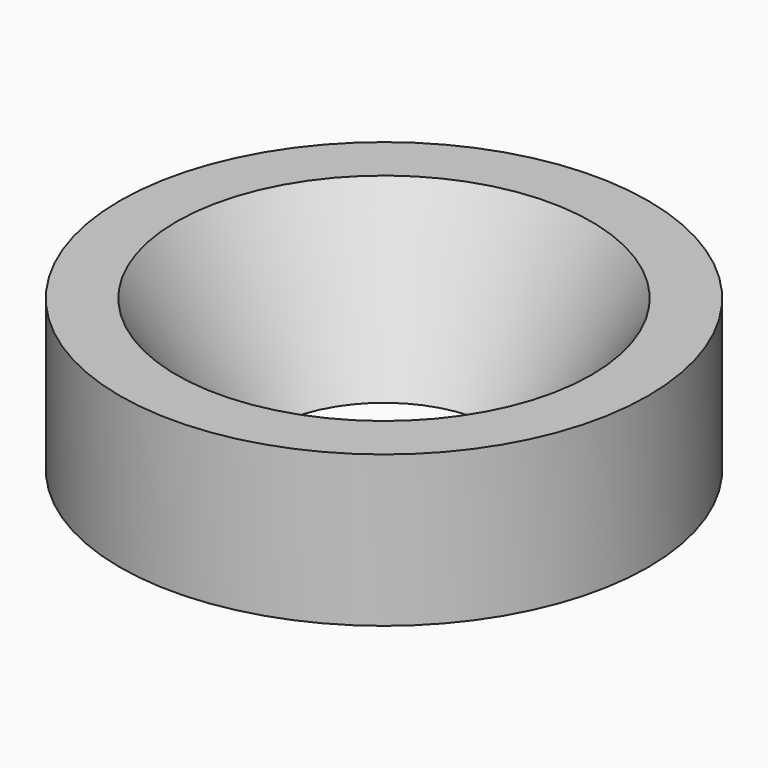
from build123d import *

# Parameters (mm, degrees)
SKETCH_R  = 3.5
PAD_DEPTH = 2


with BuildPart() as part:
    # Sketch → Pad (new body)
    with BuildSketch(Plane.XY):
        Circle(SKETCH_R)
    extrude(amount=PAD_DEPTH)

    # Cone → Cone (revolve, cut)
    with BuildSketch(Plane.XZ):
        Polygon((0, 0), (1.5, 0), (2.75, 2), (0, 2), align=None)
    revolve(axis=Axis((0, 0, 0), (0, 0, 1)), mode=Mode.SUBTRACT)


solid = part.part
